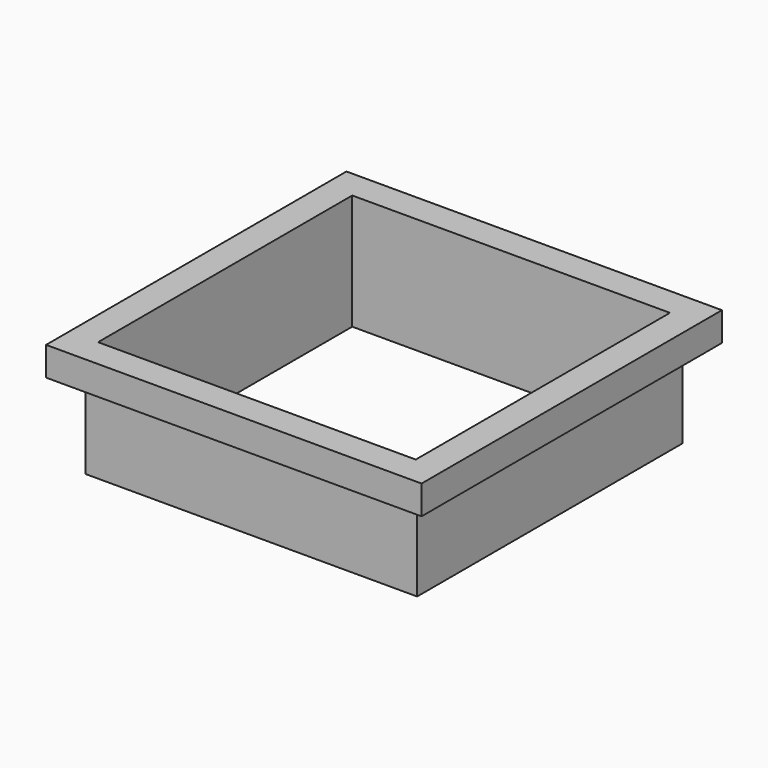
from build123d import *

# Parameters (mm, degrees)
F0_W     = 57.4
F0_H     = 57.4
F0_W_2   = 55
F0_H_2   = 55
F1_DEPTH = 20
F2_W     = 65
F2_H     = 65
F2_W_2   = 57.4
F2_H_2   = 57.4
F3_DEPTH = 5


with BuildPart() as f1:
    # F0 (on Top) → F1 (new body)
    with BuildSketch(Plane.XY):
        with Locations((28.7, 28.7)):
            Rectangle(F0_W, F0_H)
        with Locations((28.7, 28.7)):
            Rectangle(F0_W_2, F0_H_2, mode=Mode.SUBTRACT)
    extrude(amount=F1_DEPTH)

    # F2 (on face) → F3 (join)
    with BuildSketch(Plane.XY.offset(20)):
        with Locations((28.7, 28.7)):
            Rectangle(F2_W, F2_H)
        with Locations((28.7, 28.7)):
            Rectangle(F2_W_2, F2_H_2, mode=Mode.SUBTRACT)
    extrude(amount=-F3_DEPTH)


solid = f1.part
